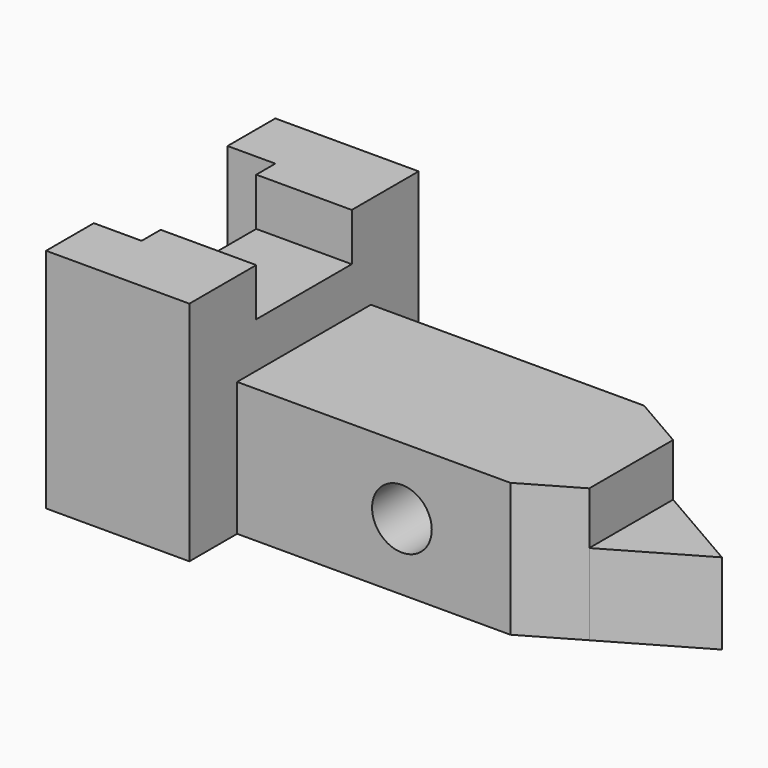
from build123d import *

# Parameters (mm, degrees)
F1_DEPTH = 48.26
F2_DEPTH = 28.448
F3_DEPTH = 17.272
F4_W     = 25.4
F4_H     = 10.16
F5_DEPTH = 25.4
F6_R     = 6.35
F7_DEPTH = 46.482


with BuildPart() as f1:
    # F0 (on Top) → F1 (new body)
    with BuildSketch(Plane.XY):
        Polygon((0, 12.7), (0, 0), (30.48, 0), (30.48, 12.7), (30.48, 48.26), (30.48, 60.96), (0, 60.96), (0, 48.26), (10.16, 48.26), (10.16, 12.7), align=None)
    extrude(amount=F1_DEPTH)

    # F0 (on Top) → F2 (join)
    with BuildSketch(Plane.XY):
        Polygon((30.48, 48.26), (30.48, 12.7), (88.584137, 12.7), (100.076, 19.33483), (100.076, 41.62517), (88.584137, 48.26), align=None)
    extrude(amount=F2_DEPTH)

    # F0 (on Top) → F3 (join)
    with BuildSketch(Plane.XY):
        Polygon((100.076, 41.62517), (100.076, 19.33483), (119.38, 30.48), align=None)
    extrude(amount=F3_DEPTH)

    # F4 (on face) → F5 (cut)
    with BuildSketch(Plane(origin=(10.16, 0, 0), x_dir=(0, -1, 0), z_dir=(-1, 0, 0))):
        with Locations((-30.48, 43.18)):
            Rectangle(F4_W, F4_H)
    extrude(amount=-F5_DEPTH, mode=Mode.SUBTRACT)

    # F6 (on face) → F7 (cut)
    with BuildSketch(Plane.XZ.offset(-12.7)):
        with Locations((65.532, 14.224)):
            Circle(F6_R)
    extrude(amount=-F7_DEPTH, mode=Mode.SUBTRACT)


solid = f1.part
